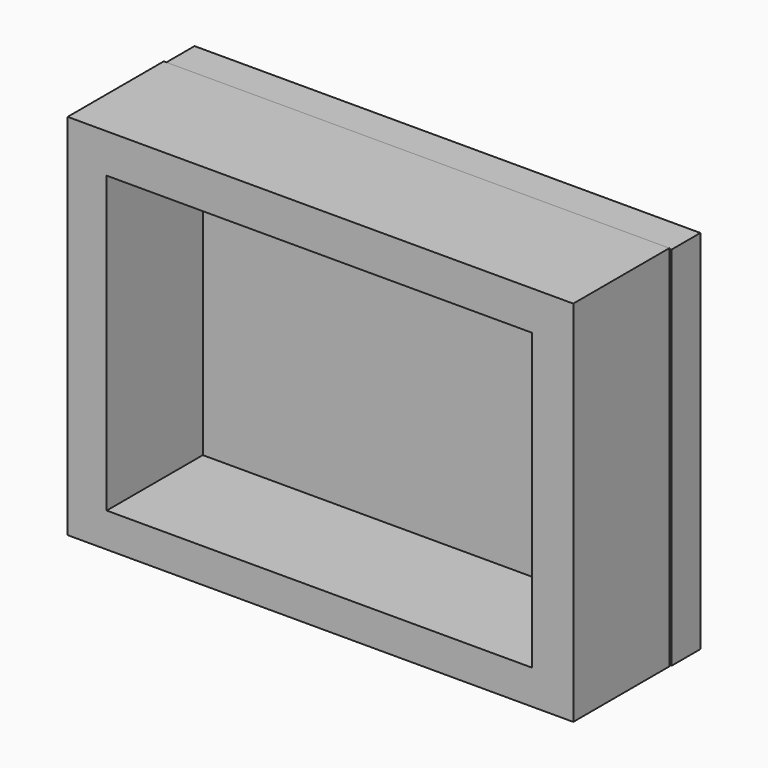
from build123d import *

# Parameters (mm, degrees)
F0_W     = 106.930423
F0_H     = 77.881411
F0_W_2   = 89.901697
F0_H_2   = 62.355211
F1_DEPTH = 25.4
F2_W     = 106.974344
F2_H     = 77.493225
F3_DEPTH = 7.62


with BuildPart() as f1:
    # F0 (on Front) → F1 (new body)
    with BuildSketch(Plane.XZ):
        with Locations((0.751262, 1.126902)):
            Rectangle(F0_W, F0_H)
        with Locations((0.500841, 0.626057)):
            Rectangle(F0_W_2, F0_H_2, mode=Mode.SUBTRACT)
    extrude(amount=F1_DEPTH)

    # F2 (on Front) → F3 (join)
    with BuildSketch(Plane.XZ):
        with Locations((1.196621, 1.206798)):
            Rectangle(F2_W, F2_H)
    extrude(amount=-F3_DEPTH)


solid = f1.part
